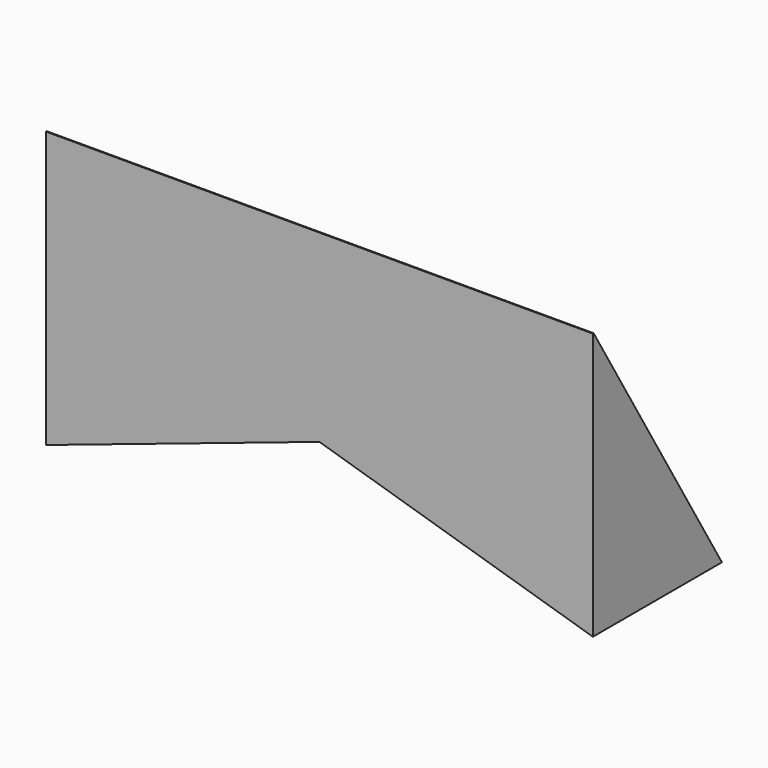
from build123d import *

# Parameters (mm, degrees)
F1_DEPTH = 38.1
F3_DEPTH = 106.172
F4_DEPTH = 85.598


with BuildPart() as f1:
    # F0 (on Front) → F1 (new body)
    with BuildSketch(Plane.XZ):
        Polygon((63.5, 42.791789), (0, 42.791789), (-63.5, 42.791789), (-63.5, -21.281976), (-0.006818, 0), (63.5, -19.196785), align=None)
    extrude(amount=F1_DEPTH)

    # F2 (on Right) → F3 (cut)
    with BuildSketch(Plane.YZ):
        Polygon((0, -20.257542), (0, 43.2841), (-38.183279, 43.2841), align=None)
    extrude(amount=-F3_DEPTH, mode=Mode.SUBTRACT)

    # F2 (on Right) → F4 (cut)
    with BuildSketch(Plane.YZ):
        Polygon((0, -20.257542), (0, 43.2841), (-38.183279, 43.2841), align=None)
    extrude(amount=F4_DEPTH, mode=Mode.SUBTRACT)


solid = f1.part
